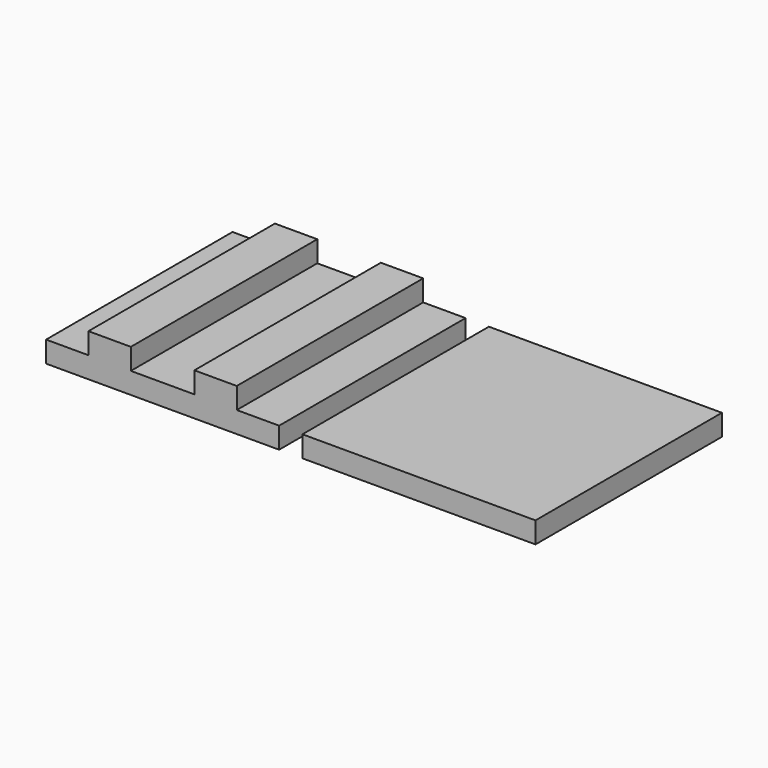
from build123d import *

# Parameters (mm, degrees)
F0_W     = 279.4
F0_H     = 279.4
F1_DEPTH = 25.4
F2_W     = 279.4
F2_H     = 279.4
F3_DEPTH = 25.4
F4_W     = 50.8
F4_H     = 279.4
F5_DEPTH = 25.4


with BuildPart() as f1:
    # F0 (on Top) → F1 (new body)
    with BuildSketch(Plane.XY):
        with Locations((35.566936, 27.745318)):
            Rectangle(F0_W, F0_H)
    extrude(amount=F1_DEPTH)


with BuildPart() as f3:
    # F2 (on face) → F3 (new body)
    with BuildSketch(Plane(origin=(0, 0, 0), x_dir=(1, 0, 0), z_dir=(0, 0, -1))):
        with Locations((-271.773155, -27.745317)):
            Rectangle(F2_W, F2_H)
    extrude(amount=-F3_DEPTH)

    # F4 (on face) → F5 (join)
    with BuildSketch(Plane.XY.offset(25.4)):
        with Locations((-335.273155, 27.745317)):
            Rectangle(F4_W, F4_H)
        with Locations((-208.273155, 27.745317)):
            Rectangle(F4_W, F4_H)
    extrude(amount=F5_DEPTH)


solid = Compound([f1.part, f3.part])
